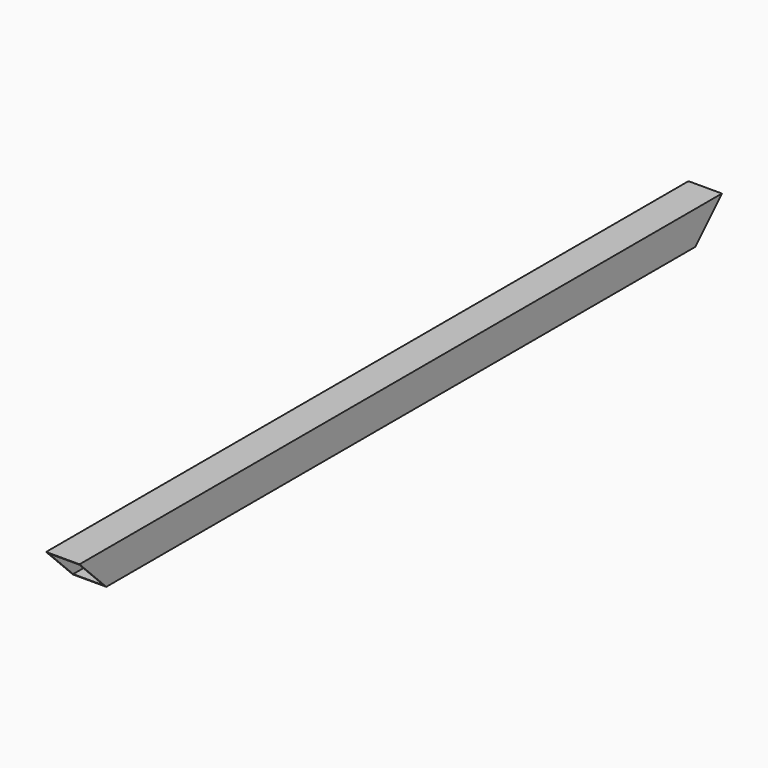
from build123d import *

# Parameters (mm, degrees)
F0_W     = 50
F0_H     = 50
F0_W_2   = 46
F0_H_2   = 46
F1_DEPTH = 1200
F3_DEPTH = 50.001
F5_DEPTH = 50.001


with BuildPart() as f1:
    # F0 (on Front) → F1 (new body)
    with BuildSketch(Plane.XZ):
        with Locations((25, 25)):
            Rectangle(F0_W, F0_H)
        with Locations((25, 25)):
            Rectangle(F0_W_2, F0_H_2, mode=Mode.SUBTRACT)
    extrude(amount=F1_DEPTH)

    # F2 (on face) → F3 (cut, through all)
    with BuildSketch(Plane.YZ.offset(50)):
        Polygon((-1150, 0), (-1200, 50), (-1200, 0), align=None)
    extrude(amount=-F3_DEPTH, mode=Mode.SUBTRACT)

    # F4 (on face) → F5 (cut, through all)
    with BuildSketch(Plane.YZ.offset(50)):
        Polygon((0, 50), (-50, 0), (0, 0), align=None)
    extrude(amount=-F5_DEPTH, mode=Mode.SUBTRACT)


solid = f1.part
